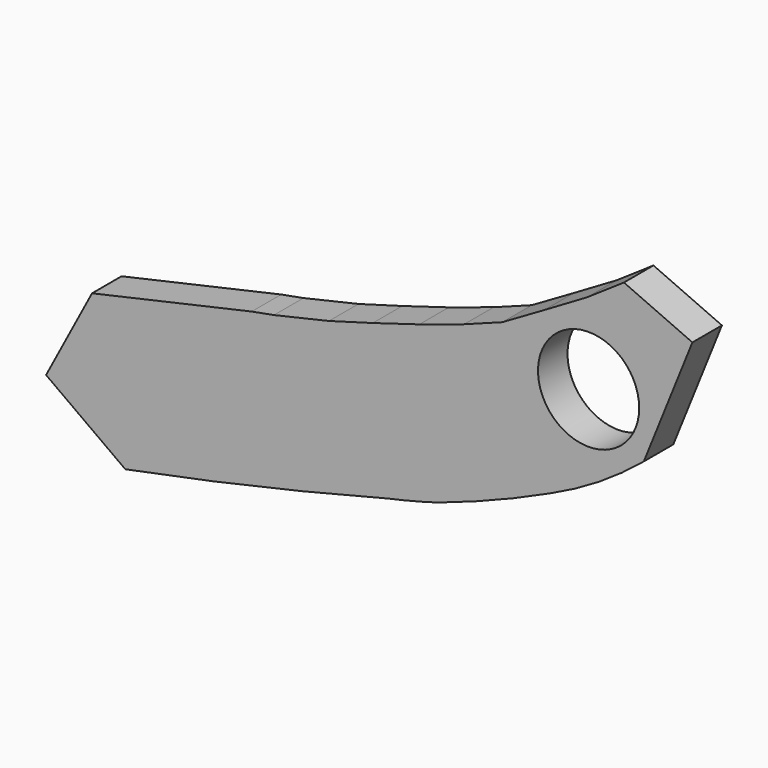
from build123d import *

# Parameters (mm, degrees)
F0_R     = 34.825128
F1_DEPTH = 3.175
F2_DEPTH = 25.4


with BuildPart() as f1:
    # F0 (on Front) → F1 (new body)
    with BuildSketch(Plane.XZ):
        with BuildLine():
            ThreePointArc((-18.69631, -95.516205), (14.895769, -77.565307), (45.746977, -55.23001))
            Line((45.746977, -55.23001), (79.191498, 27.796688))
            Line((79.191498, 27.796688), (32.062746, 48.766128))
            Line((32.062746, 48.766128), (6.719973, 31.560257))
            Line((6.719973, 31.560257), (-22.754703, 14.252452))
            Line((-22.754703, 14.252452), (-51.715285, -2.541256))
            Line((-51.715285, -2.541256), (-77.934034, -12.309025))
            Line((-77.934034, -12.309025), (-108.779624, -22.419523))
            Line((-108.779624, -22.419523), (-140.824765, -32.015931))
            Line((-140.824765, -32.015931), (-170.984894, -40.584151))
            Line((-170.984894, -40.584151), (-208.856419, -49.32373))
            Line((-208.856419, -49.32373), (-224.193186, -52.169457))
            Line((-224.193186, -52.169457), (-334.073871, -76.840252))
            Line((-334.073871, -76.840252), (-365.706994, -136.64448))
            Line((-365.706994, -136.64448), (-311.165214, -176.029833))
            ThreePointArc((-311.165214, -176.029833), (-220.172881, -156.91574), (-129.851863, -134.846151))
            ThreePointArc((-129.851863, -134.846151), (-112.928112, -130.876685), (-96.163169, -126.282483))
            ThreePointArc((-96.163169, -126.282483), (-56.986462, -112.015479), (-18.69631, -95.516205))
        make_face()
        with Locations((7.733301, -23.911934)):
            Circle(F0_R, mode=Mode.SUBTRACT)
    extrude(amount=F1_DEPTH)

    # F0 (on Front) → F2 (join)
    with BuildSketch(Plane.XZ):
        with BuildLine():
            ThreePointArc((-18.69631, -95.516205), (14.895769, -77.565307), (45.746977, -55.23001))
            Line((45.746977, -55.23001), (79.191498, 27.796688))
            Line((79.191498, 27.796688), (32.062746, 48.766128))
            Line((32.062746, 48.766128), (6.719973, 31.560257))
            Line((6.719973, 31.560257), (-22.754703, 14.252452))
            Line((-22.754703, 14.252452), (-51.715285, -2.541256))
            Line((-51.715285, -2.541256), (-77.934034, -12.309025))
            Line((-77.934034, -12.309025), (-108.779624, -22.419523))
            Line((-108.779624, -22.419523), (-140.824765, -32.015931))
            Line((-140.824765, -32.015931), (-170.984894, -40.584151))
            Line((-170.984894, -40.584151), (-208.856419, -49.32373))
            Line((-208.856419, -49.32373), (-224.193186, -52.169457))
            Line((-224.193186, -52.169457), (-334.073871, -76.840252))
            Line((-334.073871, -76.840252), (-365.706994, -136.64448))
            Line((-365.706994, -136.64448), (-311.165214, -176.029833))
            ThreePointArc((-311.165214, -176.029833), (-220.172881, -156.91574), (-129.851863, -134.846151))
            ThreePointArc((-129.851863, -134.846151), (-112.928112, -130.876685), (-96.163169, -126.282483))
            ThreePointArc((-96.163169, -126.282483), (-56.986462, -112.015479), (-18.69631, -95.516205))
        make_face()
        with Locations((7.733301, -23.911934)):
            Circle(F0_R, mode=Mode.SUBTRACT)
    extrude(amount=F2_DEPTH)


solid = f1.part
